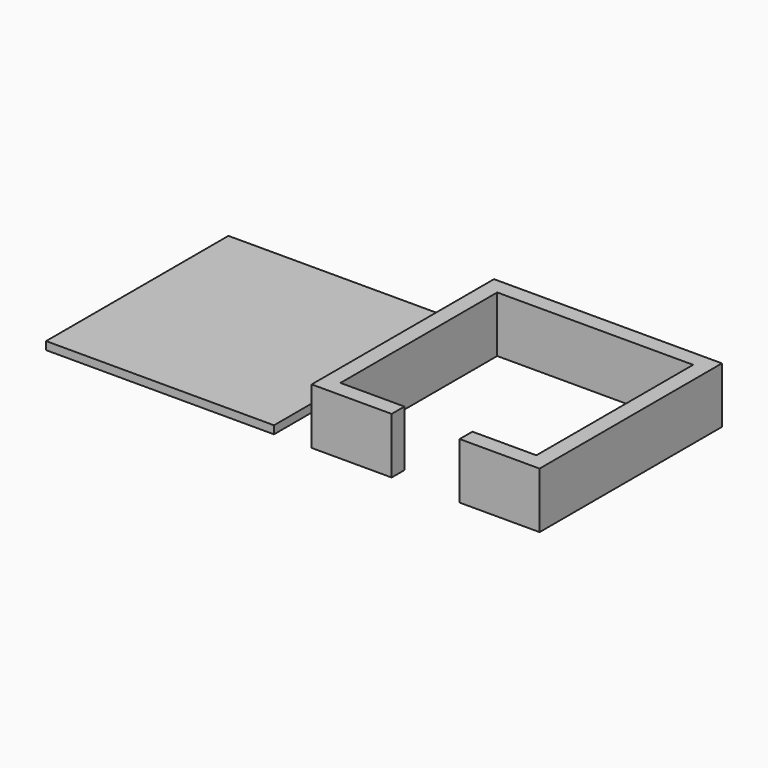
from build123d import *

# Parameters (mm, degrees)
F0_W     = 90.4875
F0_H     = 90.4875
F1_DEPTH = 3.175
F2_DEPTH = 22.225


with BuildPart() as f1:
    # F0 (on Top) → F1 (new body)
    with BuildSketch(Plane.XY):
        with Locations((-105.369041, -1.068996)):
            Rectangle(F0_W, F0_H)
    extrude(amount=F1_DEPTH)


with BuildPart() as f2:
    # F0 (on Top) → F2 (new body)
    with BuildSketch(Plane.XY):
        Polygon((45.195677, 44.331089), (-45.291823, 44.331089), (-45.291823, -46.156411), (-13.541823, -46.156411), (-13.541823, -39.806411), (-38.941823, -39.806411), (-38.941823, 37.981089), (38.845677, 37.981089), (38.845677, -39.806411), (13.445677, -39.806411), (13.445677, -46.156411), (45.195677, -46.156411), align=None)
    extrude(amount=F2_DEPTH)


solid = Compound([f1.part, f2.part])
